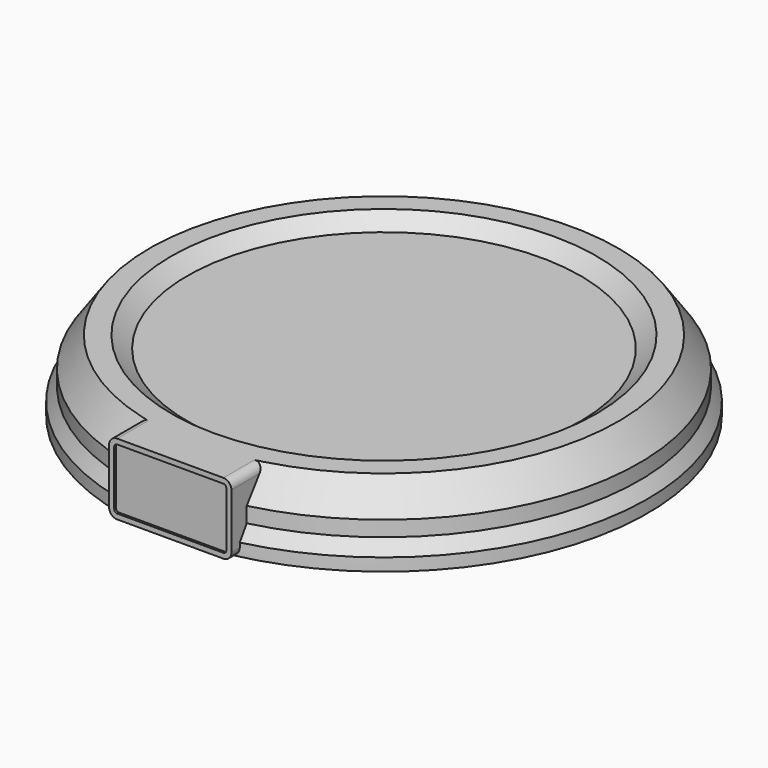
from build123d import *

# Parameters (mm, degrees)
F3_W     = 38
F3_H     = 19.3329955554
F4_DEPTH = 12.3
F5_DEPTH = 3.5
F6_DEPTH = 2.7745664948
F7_R     = 2.5
F9_DEPTH = 0.7


with BuildPart() as f1:
    # F0 (on Front) → F1 (revolve)
    with BuildSketch(Plane.XZ):
        Polygon((0, 18.3759443462), (0, 0), (81.9731503725, 0), (81.9731503725, 3.9145960473), (79.3440267444, 8.0617284402), (79.3440267444, 12.8429912047), (72.8131681681, 22.1075620502), (66.1219879985, 22.1075620502), (61.1036121845, 18.3759443462), align=None)
    revolve(axis=Axis((0, 0, 9.1879721731), (0, 0, 1)))

    # F3 (on offset) → F4 (join)
    with BuildSketch(Plane.XZ.offset(79.48)):
        with Locations((0, 12.4410642725)):
            Rectangle(F3_W, F3_H)
    extrude(amount=-F4_DEPTH)

    # F3 (on offset) → F5 (join)
    with BuildSketch(Plane.XZ.offset(79.48)):
        with Locations((0, 12.4410642725)):
            Rectangle(F3_W, F3_H)
    extrude(amount=F5_DEPTH)

    # F6 (add, through all): a face of the model
    f6_faces = [f1.faces().sort_by_distance(p)[0] for p in [
        (0, -81.9802862149, 2.7745664948),
    ]]
    extrude(f6_faces, amount=F6_DEPTH)

    # F7
    f7_edges = [f1.edges().sort_by_distance(p)[0] for p in [
        (-19, -76.635261, 22.107562),
        (19, -76.635261, 22.107562),
        (19, -81.360407, 0),
        (-19, -81.360407, 0),
    ]]
    fillet(f7_edges, radius=F7_R)

    # F8 (on face) → F9 (cut)
    with BuildSketch(Plane.XZ.offset(82.98)):
        with BuildLine():
            Line((16.5, 20.5075629056), (-16.5, 20.5075629056))
            ThreePointArc((-16.5, 20.5075629056), (-17.1363967079, 20.2439587581), (-17.4000008553, 19.6075620502))
            Line((-17.4000008553, 19.6075620502), (-17.4000008553, 2.5))
            ThreePointArc((-17.4000008553, 2.5), (-17.1363967079, 1.8636032921), (-16.5, 1.5999991447))
            Line((-16.5, 1.5999991447), (16.5, 1.5999991447))
            ThreePointArc((16.5, 1.5999991447), (17.1363967079, 1.8636032921), (17.4000008553, 2.5))
            Line((17.4000008553, 2.5), (17.4000008553, 19.6075620502))
            ThreePointArc((17.4000008553, 19.6075620502), (17.1363967079, 20.2439587581), (16.5, 20.5075629056))
        make_face()
    extrude(amount=-F9_DEPTH, mode=Mode.SUBTRACT)


solid = f1.part
